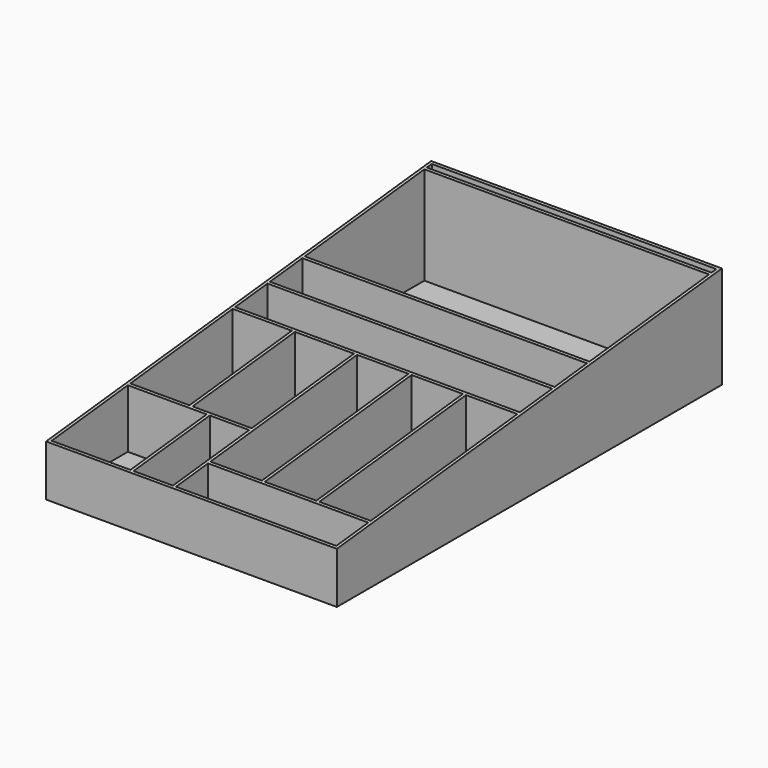
from build123d import *

# Parameters (mm, degrees)
PAD_DEPTH     = 142
SKETCH001_W   = 278
SKETCH001_H   = 146
SKETCH001_H_2 = 39.5
SKETCH001_W_2 = 57.75
SKETCH001_H_3 = 125
SKETCH001_W_3 = 77
SKETCH001_H_4 = 93.1
SKETCH001_W_4 = 38.5
SKETCH001_W_5 = 50.17
SKETCH001_H_5 = 179
SKETCH001_W_6 = 156.5
SKETCH001_H_6 = 39.1
SKETCH001_H_7 = 6
POCKET_DEPTH  = 100


with BuildPart() as part:
    # Sketch → Pad (new body, symmetric)
    with BuildSketch(Plane.YZ):
        Polygon((-233, 47), (-233, -3), (237.1, -3), (237.1, 97), align=None)
    extrude(amount=PAD_DEPTH, both=True)

    # Sketch001 → Pocket (cut)
    with BuildSketch(Plane.XY):
        with Locations((0, 152.101043)):
            Rectangle(SKETCH001_W, SKETCH001_H)
        with Locations((0, 56.351043)):
            Rectangle(SKETCH001_W, SKETCH001_H_2)
        with Locations((0, 13.851043)):
            Rectangle(SKETCH001_W, SKETCH001_H_2)
        with Locations((-110.125, -71.398957)):
            Rectangle(SKETCH001_W_2, SKETCH001_H_3)
        with Locations((-49.375, -71.398957)):
            Rectangle(SKETCH001_W_2, SKETCH001_H_3)
        with Locations((-100.5, -183.448957)):
            Rectangle(SKETCH001_W_3, SKETCH001_H_4)
        with Locations((-39.75, -183.448957)):
            Rectangle(SKETCH001_W_4, SKETCH001_H_4)
        with Locations((7.585, -98.398957)):
            Rectangle(SKETCH001_W_5, SKETCH001_H_5)
        with Locations((60.755, -98.398957)):
            Rectangle(SKETCH001_W_5, SKETCH001_H_5)
        with Locations((113.925, -98.398957)):
            Rectangle(SKETCH001_W_5, SKETCH001_H_5)
        with Locations((60.75, -210.448957)):
            Rectangle(SKETCH001_W_6, SKETCH001_H_6)
        with Locations((0, 231.101043)):
            Rectangle(SKETCH001_W, SKETCH001_H_7)
    extrude(amount=POCKET_DEPTH, mode=Mode.SUBTRACT)


solid = part.part
